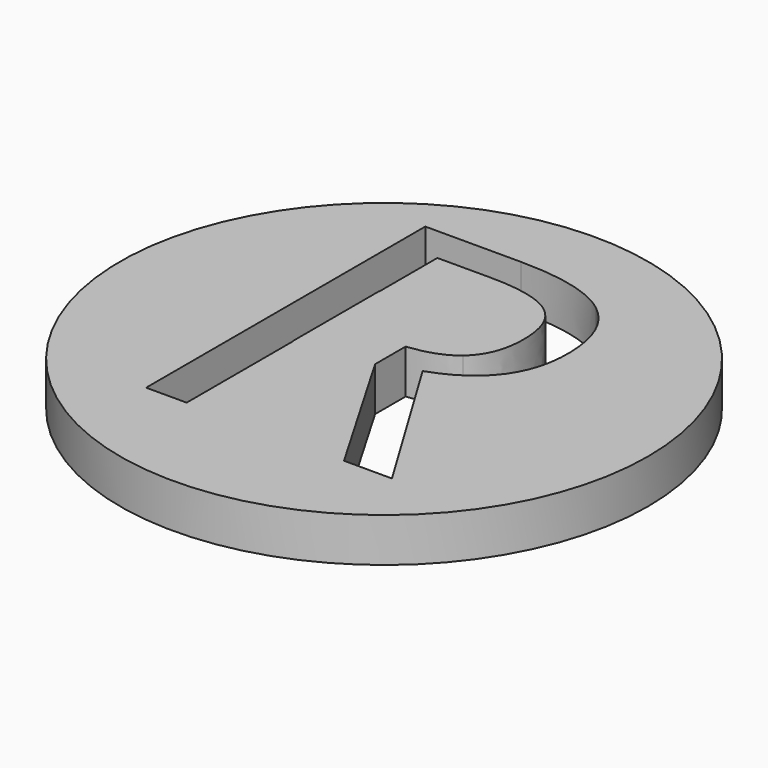
from build123d import *

# Parameters (mm, degrees)
F0_R     = 12
F1_DEPTH = 2
F3_DEPTH = 25


with BuildPart() as f1:
    # F0 (on Top) → F1 (new body)
    with BuildSketch(Plane.XY):
        Circle(F0_R)
    extrude(amount=F1_DEPTH)

    # F2 (on face) → F3 (cut)
    with BuildSketch(Plane.XY.offset(2)):
        with BuildLine():
            Line((-3.3915031236, -0.9457857469), (-3.3915031236, 3.944085829))
            Line((-3.3915031236, 3.944085829), (-3.375, 3.944085829))
            Line((-3.375, 3.944085829), (-3.375, 7.2465277778))
            Line((-3.375, 7.2465277778), (-0.9756944444, 7.2465277778))
            add(Edge.make_bspline(
                [(2.0034722222, 6.5520833333), (1.0763888889, 7.2465277778), (-0.9756944444, 7.2465277778)],
                knots=[0, 0, 0, 1, 1, 1], degree=2))
            add(Edge.make_bspline(
                [(2.9305555556, 4.2847222222), (2.9305555556, 5.8576388889), (2.0034722222, 6.5520833333)],
                knots=[0, 0, 0, 1, 1, 1], degree=2))
            add(Edge.make_bspline(
                [(2.0190972222, 1.9565972222), (2.9305555556, 2.7326388889), (2.9305555556, 4.2847222222)],
                knots=[0, 0, 0, 1, 1, 1], degree=2))
            add(Edge.make_bspline(
                [(0, 1.2217253682), (1.3175733552, 1.3592997583), (2.0190972222, 1.9565972222)],
                knots=[0.2303281002, 0.2303281002, 0.2303281002, 1, 1, 1], degree=2))
            Line((0, 1.2217253682), (0, -0.5101466747))
            Line((0, -0.5101466747), (3.7777777778, -7))
            Line((3.7777777778, -7), (5.9583333333, -7))
            Line((5.9583333333, -7), (1.6493055556, 0.1284722222))
            add(Edge.make_bspline(
                [(4.8402777778, 4.3819444444), (4.8402777778, 1.2361111111), (1.6493055556, 0.1284722222)],
                knots=[0, 0, 0, 1, 1, 1], degree=2))
            add(Edge.make_bspline(
                [(3.4461805556, 7.7465277778), (4.8402777778, 6.6284722222), (4.8402777778, 4.3819444444)],
                knots=[0, 0, 0, 1, 1, 1], degree=2))
            add(Edge.make_bspline(
                [(-0.8680555556, 8.8645833333), (2.0520833333, 8.8645833333), (3.4461805556, 7.7465277778)],
                knots=[0, 0, 0, 1, 1, 1], degree=2))
            Line((-0.8680555556, 8.8645833333), (-5.21875, 8.8645833333))
            Line((-5.21875, 8.8645833333), (-5.21875, -7))
            Line((-5.21875, -7), (-3.375, -7))
            Line((-3.375, -7), (-3.375, -0.9457857469))
            Line((-3.375, -0.9457857469), (-3.3915031236, -0.9457857469))
        make_face()
    extrude(amount=-F3_DEPTH, mode=Mode.SUBTRACT)


solid = f1.part
